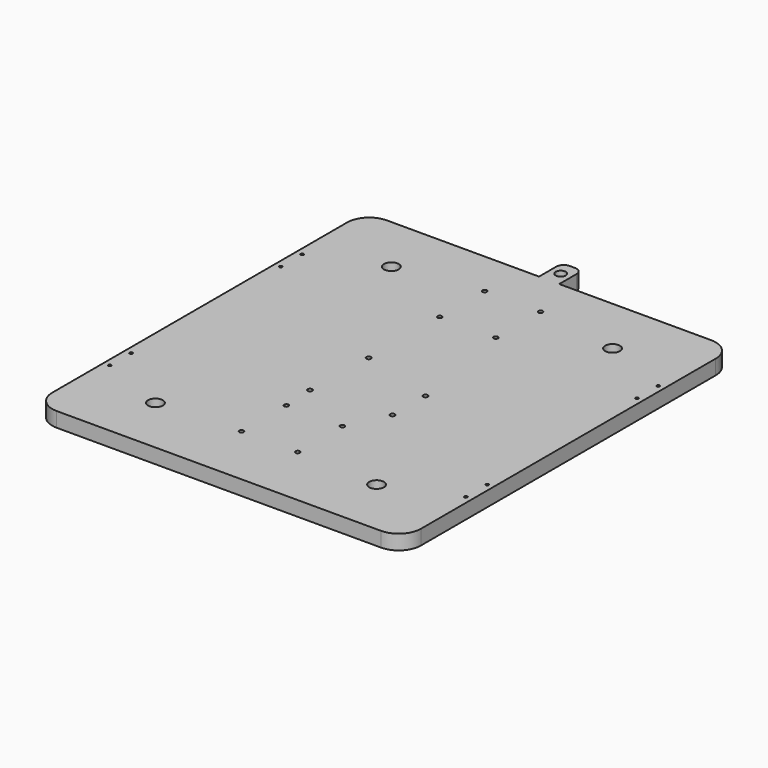
from build123d import *

# Parameters (mm, degrees)
F1_R     = 1
F1_R_2   = 5
F1_R_3   = 1.5
F1_R_4   = 1.5875
F1_R_5   = 3.429
F2_DEPTH = 10


with BuildPart() as f2:
    # F1 (on Top) → F2 (new body)
    with BuildSketch(Plane.XY):
        with BuildLine():
            Line((-6.849593, 140), (-110, 140))
            ThreePointArc((-110, 140), (-120.606602, 135.606602), (-125, 125))
            Line((-125, 125), (-125, -125))
            ThreePointArc((-125, -125), (-120.606602, -135.606602), (-110, -140))
            Line((-110, -140), (110, -140))
            ThreePointArc((110, -140), (120.606602, -135.606602), (125, -125))
            Line((125, -125), (125, 125))
            ThreePointArc((125, 125), (120.606602, 135.606602), (110, 140))
            Line((110, 140), (6.849593, 140))
            Line((6.849593, 140), (6.849593, 154.655438))
            ThreePointArc((6.849593, 154.655438), (5.385127, 158.190972), (1.849593, 159.655438))
            Line((1.849593, 159.655438), (-1.849593, 159.655438))
            ThreePointArc((-1.849593, 159.655438), (-5.385127, 158.190972), (-6.849593, 154.655438))
            Line((-6.849593, 154.655438), (-6.849593, 140))
        make_face()
        with Locations((-120.75, -81.5)):
            Circle(F1_R, mode=Mode.SUBTRACT)
        with Locations((-75, -100)):
            Circle(F1_R_2, mode=Mode.SUBTRACT)
        with Locations((-120.75, -63.5)):
            Circle(F1_R, mode=Mode.SUBTRACT)
        with Locations((-19, -97)):
            Circle(F1_R_3, mode=Mode.SUBTRACT)
        with Locations((19, -97)):
            Circle(F1_R_3, mode=Mode.SUBTRACT)
        with Locations((75, -100)):
            Circle(F1_R_2, mode=Mode.SUBTRACT)
        with Locations((120.75, -81.5)):
            Circle(F1_R, mode=Mode.SUBTRACT)
        with Locations((-19, -59)):
            Circle(F1_R_3, mode=Mode.SUBTRACT)
        with Locations((-20.32, -37.46)):
            Circle(F1_R_4, mode=Mode.SUBTRACT)
        with Locations((19, -59)):
            Circle(F1_R_3, mode=Mode.SUBTRACT)
        with Locations((31.75, -32.38)):
            Circle(F1_R_4, mode=Mode.SUBTRACT)
        with Locations((31.75, -4.44)):
            Circle(F1_R_4, mode=Mode.SUBTRACT)
        with Locations((120.75, -63.5)):
            Circle(F1_R, mode=Mode.SUBTRACT)
        with Locations((-120.75, 63.5)):
            Circle(F1_R, mode=Mode.SUBTRACT)
        with Locations((-120.75, 81.5)):
            Circle(F1_R, mode=Mode.SUBTRACT)
        with Locations((-75, 100)):
            Circle(F1_R_2, mode=Mode.SUBTRACT)
        with Locations((-19.05, 10.8)):
            Circle(F1_R_4, mode=Mode.SUBTRACT)
        with Locations((-19, 71)):
            Circle(F1_R_3, mode=Mode.SUBTRACT)
        with Locations((19, 71)):
            Circle(F1_R_3, mode=Mode.SUBTRACT)
        with Locations((120.75, 63.5)):
            Circle(F1_R, mode=Mode.SUBTRACT)
        with Locations((-19, 109)):
            Circle(F1_R_3, mode=Mode.SUBTRACT)
        with Locations((19, 109)):
            Circle(F1_R_3, mode=Mode.SUBTRACT)
        with Locations((0, 149.827719)):
            Circle(F1_R_5, mode=Mode.SUBTRACT)
        with Locations((75, 100)):
            Circle(F1_R_2, mode=Mode.SUBTRACT)
        with Locations((120.75, 81.5)):
            Circle(F1_R, mode=Mode.SUBTRACT)
    extrude(amount=F2_DEPTH)


solid = f2.part
